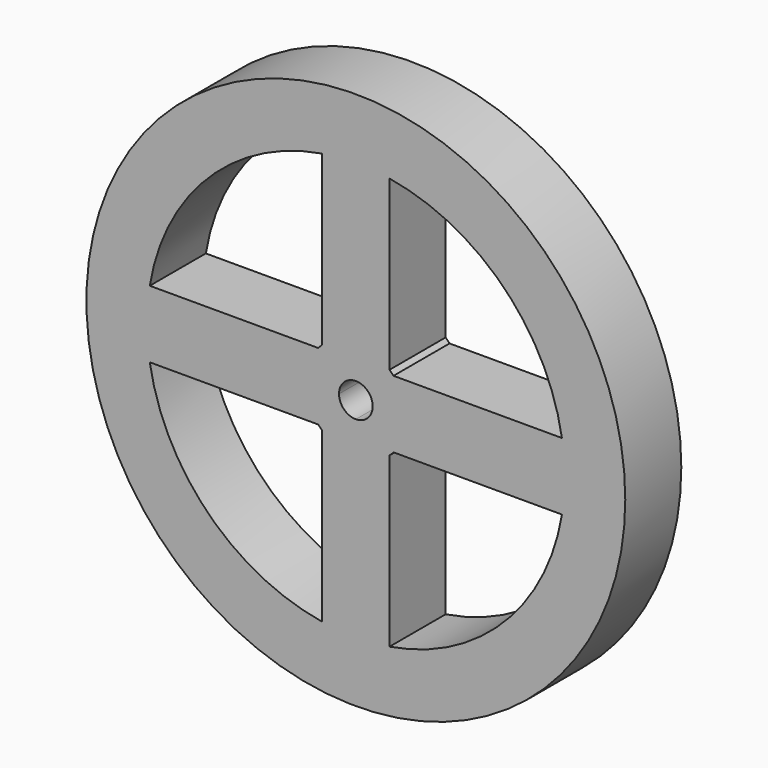
from build123d import *

# Parameters (mm, degrees)
F0_R     = 40
F1_DEPTH = 10.4


with BuildPart() as f1:
    # F0 (on Front) → F1 (new body)
    with BuildSketch(Plane.XZ):
        Circle(F0_R)
        with BuildLine():
            ThreePointArc((-5.59017, -5), (-5.303301, -5.303301), (-5, -5.59017))
            Line((-5, -5.59017), (-5, -30.594117))
            ThreePointArc((-5, -30.594117), (-21.92031, -21.92031), (-30.594117, -5))
            Line((-30.594117, -5), (-5.59017, -5))
        make_face(mode=Mode.SUBTRACT)
        with BuildLine():
            Line((5, -30.594117), (5, -5.59017))
            ThreePointArc((5, -5.59017), (5.303301, -5.303301), (5.59017, -5))
            Line((5.59017, -5), (30.594117, -5))
            ThreePointArc((30.594117, -5), (21.92031, -21.92031), (5, -30.594117))
        make_face(mode=Mode.SUBTRACT)
        with BuildLine():
            ThreePointArc((-30.594117, 5), (-21.92031, 21.92031), (-5, 30.594117))
            Line((-5, 30.594117), (-5, 5.59017))
            ThreePointArc((-5, 5.59017), (-5.303301, 5.303301), (-5.59017, 5))
            Line((-5.59017, 5), (-30.594117, 5))
        make_face(mode=Mode.SUBTRACT)
        with BuildLine():
            ThreePointArc((0, 2.5), (1.767767, 1.767767), (2.5, 0))
            ThreePointArc((2.5, 0), (1.767767, -1.767767), (0, -2.5))
            ThreePointArc((0, -2.5), (-1.767767, -1.767767), (-2.5, 0))
            ThreePointArc((-2.5, 0), (-1.767767, 1.767767), (0, 2.5))
        make_face(mode=Mode.SUBTRACT)
        with BuildLine():
            ThreePointArc((5, 30.594117), (21.92031, 21.92031), (30.594117, 5))
            Line((30.594117, 5), (5.59017, 5))
            ThreePointArc((5.59017, 5), (5.303301, 5.303301), (5, 5.59017))
            Line((5, 5.59017), (5, 30.594117))
        make_face(mode=Mode.SUBTRACT)
    extrude(amount=F1_DEPTH)


solid = f1.part
